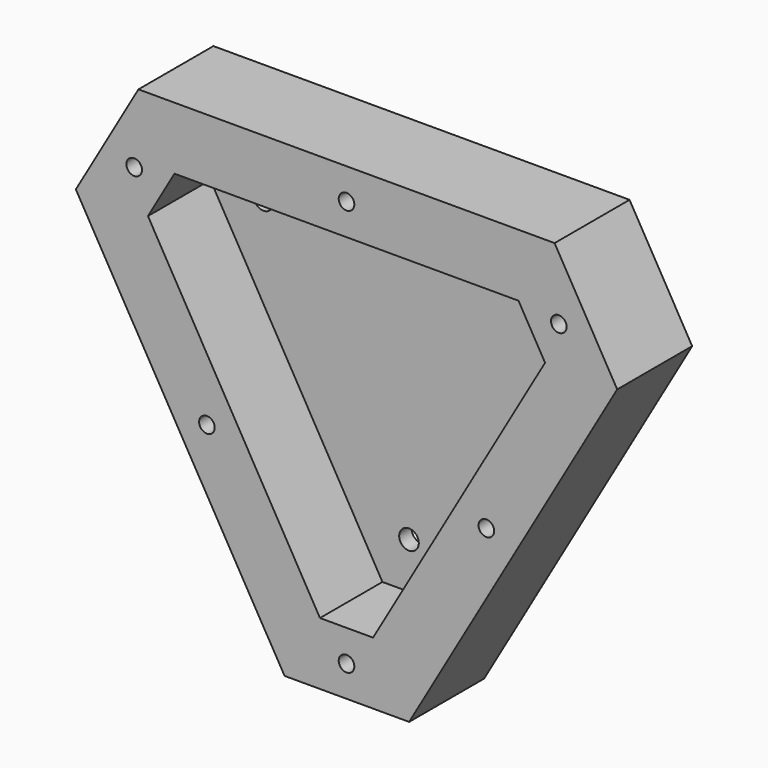
from build123d import *

# Parameters (mm, degrees)
F0_R     = 3.9878
F0_R_2   = 3.175
F1_DEPTH = 6.35
F2_DEPTH = 38.1


with BuildPart() as f1:
    # F0 (on Front) → F1 (new body)
    with BuildSketch(Plane.XZ):
        Polygon((69.937115, 52.841144), (-69.937115, 52.841144), (-80.73033, 34.146747), (-10.793215, -86.98789), (10.793215, -86.98789), (80.73033, 34.146747), align=None)
        with BuildLine():
            ThreePointArc((5.191303, -71.290693), (0, -74.287893), (-5.191303, -71.290693))
            Line((-5.191303, -71.290693), (-64.335203, 31.149547))
            ThreePointArc((-64.335203, 31.149547), (-64.335203, 37.143947), (-59.1439, 40.141147))
            Line((-59.1439, 40.141147), (59.1439, 40.141147))
            ThreePointArc((59.1439, 40.141147), (64.335203, 37.143947), (64.335203, 31.149547))
            Line((64.335203, 31.149547), (5.191303, -71.290693))
        make_face(mode=Mode.SUBTRACT)
        with BuildLine():
            Line((-64.335203, 31.149547), (-5.191303, -71.290693))
            ThreePointArc((-5.191303, -71.290693), (0, -74.287893), (5.191303, -71.290693))
            Line((5.191303, -71.290693), (64.335203, 31.149547))
            ThreePointArc((64.335203, 31.149547), (64.335203, 37.143947), (59.1439, 40.141147))
            Line((59.1439, 40.141147), (-59.1439, 40.141147))
            ThreePointArc((-59.1439, 40.141147), (-64.335203, 37.143947), (-64.335203, 31.149547))
        make_face()
        with Locations((0, -68.293493)):
            Circle(F0_R, mode=Mode.SUBTRACT)
        with Locations((-59.1439, 34.146747)):
            Circle(F0_R, mode=Mode.SUBTRACT)
        with Locations((59.1439, 34.146747)):
            Circle(F0_R, mode=Mode.SUBTRACT)
        Polygon((-80.73033, 34.146747), (-69.937115, 52.841144), (-84.601812, 78.241144), (-110.059724, 34.146747), align=None)
        with Locations((-86.332245, 49.843945)):
            Circle(F0_R_2, mode=Mode.SUBTRACT)
        Polygon((-10.793215, -86.98789), (-80.73033, 34.146747), (-110.059724, 34.146747), (-25.196828, -112.38789), align=None)
        with Locations((-56.760295, -32.770572)):
            Circle(F0_R_2, mode=Mode.SUBTRACT)
        Polygon((10.793215, -86.98789), (-10.793215, -86.98789), (-25.196828, -112.38789), (25.457912, -112.38789), align=None)
        with Locations((0, -99.801958)):
            Circle(F0_R_2, mode=Mode.SUBTRACT)
        Polygon((110.059724, 34.146747), (80.73033, 34.146747), (10.793215, -86.98789), (25.457912, -112.38789), align=None)
        with Locations((56.859081, -32.827606)):
            Circle(F0_R_2, mode=Mode.SUBTRACT)
        Polygon((84.601812, 78.241144), (69.937115, 52.841144), (80.73033, 34.146747), (110.059724, 34.146747), align=None)
        with Locations((86.332245, 49.843945)):
            Circle(F0_R_2, mode=Mode.SUBTRACT)
        Polygon((-84.601812, 78.241144), (-69.937115, 52.841144), (69.937115, 52.841144), (84.601812, 78.241144), align=None)
        with Locations((0, 65.541144)):
            Circle(F0_R_2, mode=Mode.SUBTRACT)
    extrude(amount=F1_DEPTH)


with BuildPart() as f2:
    # F0 (on Front) → F2 (new body)
    with BuildSketch(Plane.XZ):
        Polygon((-80.73033, 34.146747), (-69.937115, 52.841144), (-84.601812, 78.241144), (-110.059724, 34.146747), align=None)
        with Locations((-86.332245, 49.843945)):
            Circle(F0_R_2, mode=Mode.SUBTRACT)
        Polygon((-10.793215, -86.98789), (-80.73033, 34.146747), (-110.059724, 34.146747), (-25.196828, -112.38789), align=None)
        with Locations((-56.760295, -32.770572)):
            Circle(F0_R_2, mode=Mode.SUBTRACT)
        Polygon((10.793215, -86.98789), (-10.793215, -86.98789), (-25.196828, -112.38789), (25.457912, -112.38789), align=None)
        with Locations((0, -99.801958)):
            Circle(F0_R_2, mode=Mode.SUBTRACT)
        Polygon((110.059724, 34.146747), (80.73033, 34.146747), (10.793215, -86.98789), (25.457912, -112.38789), align=None)
        with Locations((56.859081, -32.827606)):
            Circle(F0_R_2, mode=Mode.SUBTRACT)
        Polygon((84.601812, 78.241144), (69.937115, 52.841144), (80.73033, 34.146747), (110.059724, 34.146747), align=None)
        with Locations((86.332245, 49.843945)):
            Circle(F0_R_2, mode=Mode.SUBTRACT)
        Polygon((-84.601812, 78.241144), (-69.937115, 52.841144), (69.937115, 52.841144), (84.601812, 78.241144), align=None)
        with Locations((0, 65.541144)):
            Circle(F0_R_2, mode=Mode.SUBTRACT)
    extrude(amount=F2_DEPTH)


solid = Compound([f1.part, f2.part])
